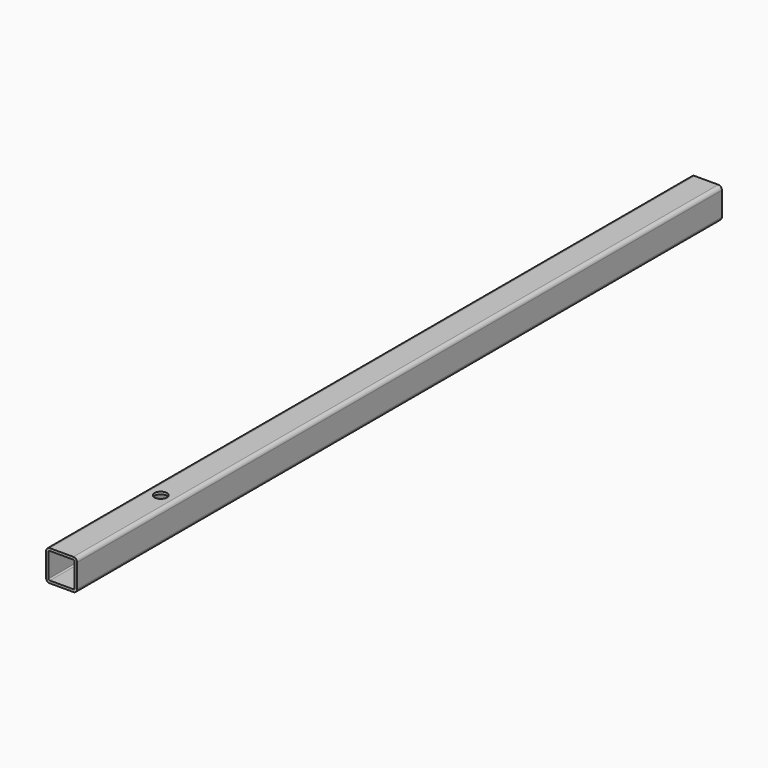
from build123d import *

# Parameters (mm, degrees)
F1_DEPTH = 650
F2_R     = 10
F3_DEPTH = 25


with BuildPart() as f1:
    # F0 (on Front) → F1 (new body, symmetric)
    with BuildSketch(Plane.XZ):
        with BuildLine():
            Line((19, 25), (-19, 25))
            ThreePointArc((-19, 25), (-23.242641, 23.242641), (-25, 19))
            Line((-25, 19), (-25, -19))
            ThreePointArc((-25, -19), (-23.242641, -23.242641), (-19, -25))
            Line((-19, -25), (19, -25))
            ThreePointArc((19, -25), (23.242641, -23.242641), (25, -19))
            Line((25, -19), (25, 19))
            ThreePointArc((25, 19), (23.242641, 23.242641), (19, 25))
        make_face()
        with BuildLine():
            ThreePointArc((-21, 19), (-20.414214, 20.414214), (-19, 21))
            Line((-19, 21), (19, 21))
            ThreePointArc((19, 21), (20.414214, 20.414214), (21, 19))
            Line((21, 19), (21, -19))
            ThreePointArc((21, -19), (20.414214, -20.414214), (19, -21))
            Line((19, -21), (-19, -21))
            ThreePointArc((-19, -21), (-20.414214, -20.414214), (-21, -19))
            Line((-21, -19), (-21, 19))
        make_face(mode=Mode.SUBTRACT)
    extrude(amount=F1_DEPTH, both=True)

    # F2 (on face) → F3 (cut)
    with BuildSketch(Plane.XY.offset(25)):
        with Locations((0, -450)):
            Circle(F2_R)
    extrude(amount=-F3_DEPTH, mode=Mode.SUBTRACT)


solid = f1.part
